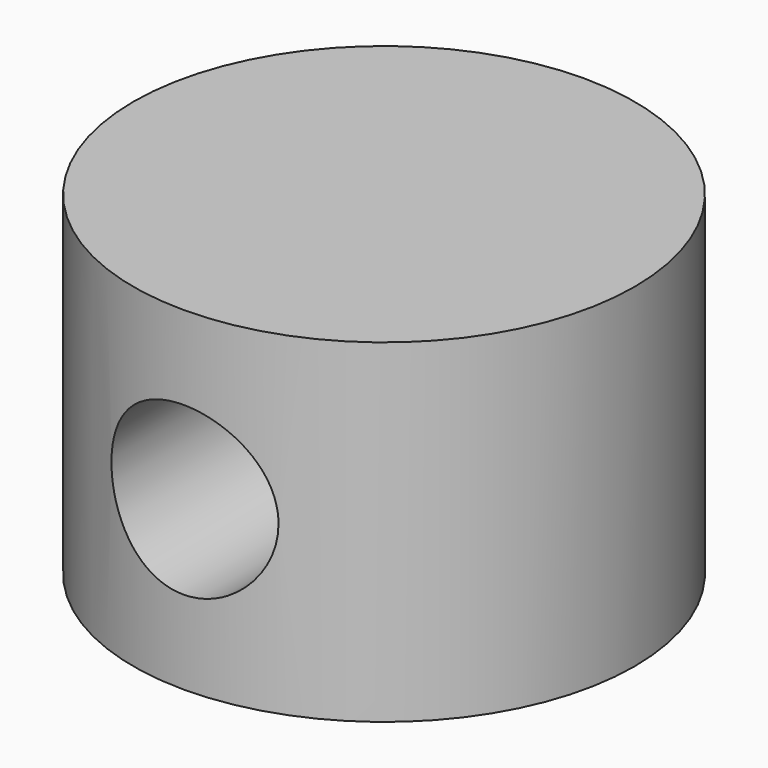
from build123d import *

# Parameters (mm, degrees)
F0_R     = 150
F1_DEPTH = 100
F2_R     = 50
F3_DEPTH = 150


with BuildPart() as f1:
    # F0 (on Top) → F1 (new body, symmetric)
    with BuildSketch(Plane.XY):
        Circle(F0_R)
    extrude(amount=F1_DEPTH, both=True)

    # F2 (on Front) → F3 (cut, through all)
    with BuildSketch(Plane.XZ):
        Circle(F2_R)
    extrude(amount=F3_DEPTH, mode=Mode.SUBTRACT)


solid = f1.part
